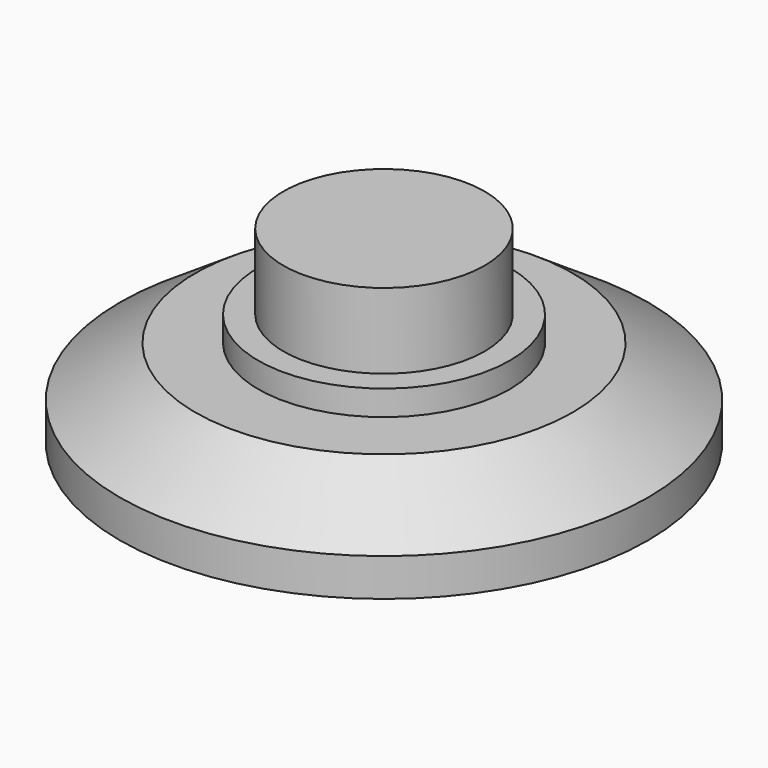
from build123d import *

# Parameters (mm, degrees)
F0_R     = 10.5
F1_DEPTH = 3.5
F2_R     = 5
F3_DEPTH = 1
F4_R     = 4
F5_DEPTH = 3
F6_SIZE2 = 2
F6_SIZE  = 3


with BuildPart() as f1:
    # F0 (on Top) → F1 (new body)
    with BuildSketch(Plane.XY):
        Circle(F0_R)
    extrude(amount=F1_DEPTH)

    # F2 (on face) → F3 (join)
    with BuildSketch(Plane.XY.offset(3.5)):
        Circle(F2_R)
    extrude(amount=F3_DEPTH)

    # F4 (on face) → F5 (join)
    with BuildSketch(Plane.XY.offset(4.5)):
        Circle(F4_R)
    extrude(amount=F5_DEPTH)

    # F6
    f6_edges = [f1.edges().sort_by_distance(p)[0] for p in [
        (-10.5, 0, 3.5),
    ]]
    f6_side = f1.faces().sort_by_distance((-10.203015, 0, 3.5))[0]
    chamfer(f6_edges, length=F6_SIZE, length2=F6_SIZE2, reference=f6_side)


solid = f1.part
